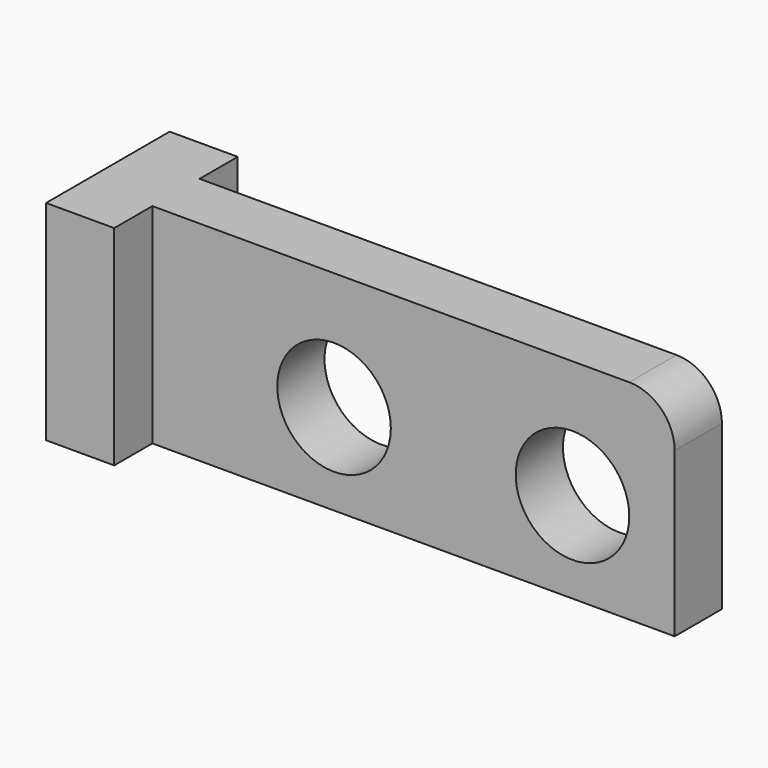
from build123d import *

# Parameters (mm, degrees)
F0_W     = 23
F0_H     = 2.6
F1_DEPTH = 9.2
F2_R     = 2.5
F3_DEPTH = 3.1
F4_R     = 2


with BuildPart() as f1:
    # F0 (on Top) → F1 (new body)
    with BuildSketch(Plane.XY):
        Polygon((-39.351552, 9.527253), (-39.351552, 2.727253), (-36.351552, 2.727253), (-36.351552, 4.827253), (-36.351552, 7.427253), (-36.351552, 9.527253), align=None)
        with Locations((-24.851552, 6.127253)):
            Rectangle(F0_W, F0_H)
    extrude(amount=F1_DEPTH)

    # F2 (on face) → F3 (cut)
    with BuildSketch(Plane.XZ.offset(-4.827253)):
        with Locations((-28.351552, 4)):
            Circle(F2_R)
        with Locations((-17.851552, 4)):
            Circle(F2_R)
    extrude(amount=-F3_DEPTH, mode=Mode.SUBTRACT)

    # F4
    f4_edges = [f1.edges().sort_by_distance(p)[0] for p in [
        (-13.351552, 6.127253, 9.2),
    ]]
    fillet(f4_edges, radius=F4_R)


solid = f1.part
